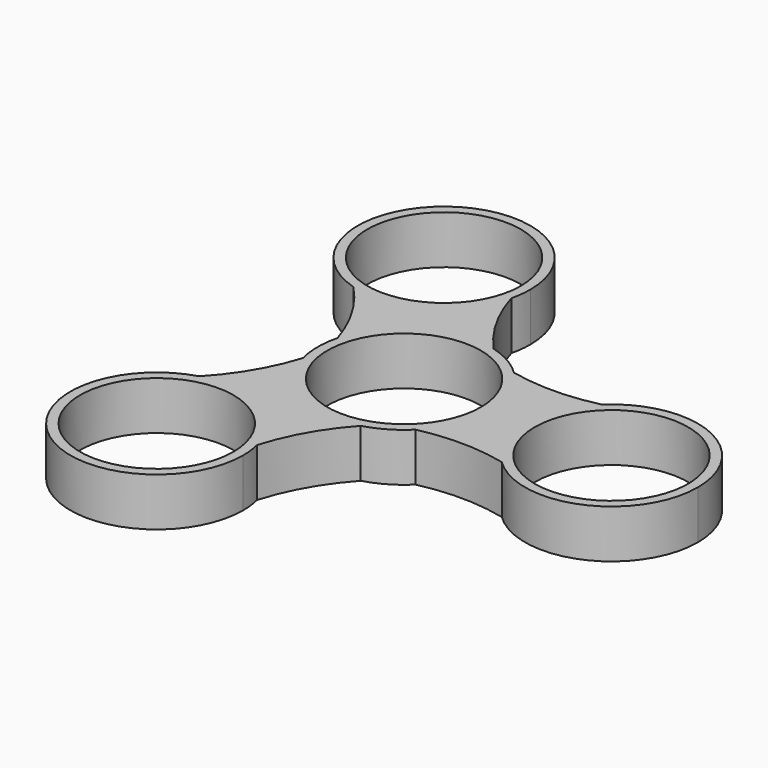
from build123d import *

# Parameters (mm, degrees)
F0_R     = 11.1
F1_DEPTH = 7


with BuildPart() as f1:
    # F0 (on Top) → F1 (new body)
    with BuildSketch(Plane.XY):
        with BuildLine():
            ThreePointArc((8.781175, -8.896121), (11.532881, -4.821064), (12.5, 0))
            ThreePointArc((12.5, 0), (11.5235, 4.843444), (8.746568, 8.930148))
            ThreePointArc((8.746568, 8.930148), (6.228973, 10.837431), (3.313679, 12.052781))
            ThreePointArc((3.313679, 12.052781), (-6.271004, 10.813164), (-12.107019, 3.109676))
            ThreePointArc((-12.107019, 3.109676), (-12.499976, -0.024267), (-12.094854, -3.15666))
            ThreePointArc((-12.094854, -3.15666), (-6.228973, -10.837431), (3.360451, -12.039824))
            ThreePointArc((3.360451, -12.039824), (6.271004, -10.813164), (8.781175, -8.896121))
        make_face()
        Circle(F0_R, mode=Mode.SUBTRACT)
        with BuildLine():
            ThreePointArc((8.746568, 8.930148), (11.5235, 4.843444), (12.5, 0))
            ThreePointArc((12.5, 0), (11.532881, -4.821064), (8.781175, -8.896121))
            ThreePointArc((8.781175, -8.896121), (15.066303, -8.237171), (21.338156, -9.012351))
            ThreePointArc((21.338156, -9.012351), (18.499499, -4.897803), (17.5, 0))
            ThreePointArc((17.5, 0), (18.509213, 4.920549), (21.373889, 9.046558))
            ThreePointArc((21.373889, 9.046558), (15.066873, 8.267642), (8.746568, 8.930148))
        make_face()
        with BuildLine():
            ThreePointArc((-12.107019, 3.109676), (-6.271004, 10.813164), (3.313679, 12.052781))
            ThreePointArc((3.313679, 12.052781), (-0.399552, 17.166387), (-2.864154, 22.985561))
            ThreePointArc((-2.864154, 22.985561), (-8.771432, 15.143099), (-18.521493, 13.987052))
            ThreePointArc((-18.521493, 13.987052), (-14.693425, 8.914473), (-12.107019, 3.109676))
        make_face()
        with BuildLine():
            ThreePointArc((42.5, 0), (34.920549, 11.490787), (21.373889, 9.046558))
            ThreePointArc((21.373889, 9.046558), (18.509213, 4.920549), (17.5, 0))
            ThreePointArc((17.5, 0), (18.499499, -4.897803), (21.338156, -9.012351))
            ThreePointArc((21.338156, -9.012351), (34.897803, -11.500501), (42.5, 0))
        make_face()
        with BuildLine():
            ThreePointArc((41.1, 0), (30, -11.1), (18.9, 0))
            ThreePointArc((18.9, 0), (30, 11.1), (41.1, 0))
        make_face(mode=Mode.SUBTRACT)
        with BuildLine():
            ThreePointArc((-2.852396, -23.03361), (-0.373448, -17.182116), (3.360451, -12.039824))
            ThreePointArc((3.360451, -12.039824), (-6.228973, -10.837431), (-12.094854, -3.15666))
            ThreePointArc((-12.094854, -3.15666), (-14.666751, -8.929215), (-18.474003, -13.97321))
            ThreePointArc((-18.474003, -13.97321), (-8.728593, -15.167832), (-2.852396, -23.03361))
        make_face()
        with BuildLine():
            ThreePointArc((-18.521493, 13.987052), (-8.771432, 15.143099), (-2.864154, 22.985561))
            ThreePointArc((-2.864154, 22.985561), (-2.591372, 24.472134), (-2.5, 25.980762))
            ThreePointArc((-2.5, 25.980762), (-22.491039, 35.987476), (-18.521493, 13.987052))
        make_face()
        with Locations((-15, 25.980762)):
            Circle(F0_R, mode=Mode.SUBTRACT)
        with BuildLine():
            ThreePointArc((-2.5, -25.980762), (-2.588412, -24.496689), (-2.852396, -23.03361))
            ThreePointArc((-2.852396, -23.03361), (-8.728593, -15.167832), (-18.474003, -13.97321))
            ThreePointArc((-18.474003, -13.97321), (-22.510824, -35.972635), (-2.5, -25.980762))
        make_face()
        with Locations((-15, -25.980762)):
            Circle(F0_R, mode=Mode.SUBTRACT)
    extrude(amount=F1_DEPTH)


solid = f1.part
